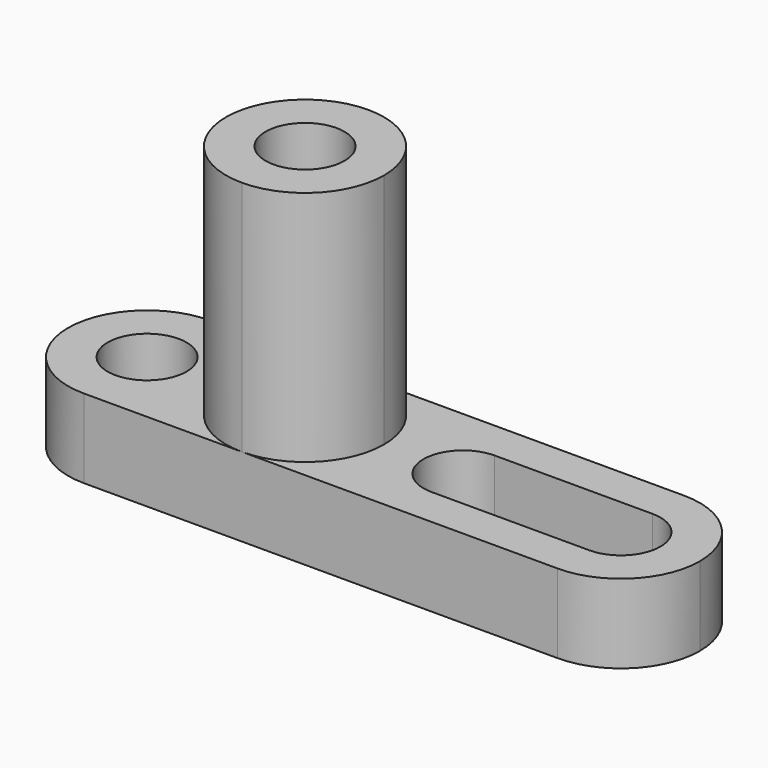
from build123d import *

# Parameters (mm, degrees)
F0_W     = 101.6
F0_H     = 50.8
F1_DEPTH = 25.4
F2_W     = 50.8
F2_H     = 38.1
F3_DEPTH = 25.4
F5_DEPTH = 38.1
F6_R     = 6.35
F7_DEPTH = 50.8
F8_R     = 6.35
F9_DEPTH = 25.4


with BuildPart() as f1:
    # F0 (on Front) → F1 (new body)
    with BuildSketch(Plane.XZ):
        with Locations((-24.0954693718, 25.4)):
            Rectangle(F0_W, F0_H)
    extrude(amount=F1_DEPTH)

    # F2 (on face) → F3 (cut)
    with BuildSketch(Plane.XZ.offset(25.4)):
        with Locations((1.3045306282, 31.75)):
            Rectangle(F2_W, F2_H)
    extrude(amount=-F3_DEPTH, mode=Mode.SUBTRACT)

    # F4 (on face) → F5 (cut)
    with BuildSketch(Plane.XY.offset(50.8)):
        Polygon((-49.4954693718, -25.4), (-49.4954693718, -12.7), (-49.4954693718, 0), (-74.8954693718, 0), (-74.8954693718, -25.4), align=None)
        with BuildLine():
            Line((-24.0954693718, -25.4), (-24.0954693718, -12.7))
            ThreePointArc((-24.0954693718, -12.7), (-27.8152132507, -21.6802561211), (-36.7954693718, -25.4))
            Line((-36.7954693718, -25.4), (-24.0954693718, -25.4))
        make_face()
        with BuildLine():
            ThreePointArc((-36.7954693718, 0), (-27.8152132507, -3.7197438789), (-24.0954693718, -12.7))
            Line((-24.0954693718, -12.7), (-24.0954693718, 0))
            Line((-24.0954693718, 0), (-36.7954693718, 0))
        make_face()
        with BuildLine():
            Line((-49.4954693718, -25.4), (-36.7954693718, -25.4))
            ThreePointArc((-36.7954693718, -25.4), (-45.7757254928, -21.6802561211), (-49.4954693718, -12.7))
            Line((-49.4954693718, -12.7), (-49.4954693718, -25.4))
        make_face()
        with BuildLine():
            ThreePointArc((-49.4954693718, -12.7), (-45.7757254928, -3.7197438789), (-36.7954693718, 0))
            Line((-36.7954693718, 0), (-49.4954693718, 0))
            Line((-49.4954693718, 0), (-49.4954693718, -12.7))
        make_face()
    extrude(amount=-F5_DEPTH, mode=Mode.SUBTRACT)

    # F6 (on face) → F7 (cut)
    with BuildSketch(Plane.XY.offset(50.8)):
        with Locations((-36.7954693718, -12.7)):
            Circle(F6_R)
    extrude(amount=-F7_DEPTH, mode=Mode.SUBTRACT)

    # F8 (on Top) → F9 (cut)
    with BuildSketch(Plane.XY):
        with Locations((-62.1954693718, -12.7)):
            Circle(F8_R)
        with BuildLine():
            ThreePointArc((-11.3954693718, -19.05), (-6.9053413112, -17.1901280605), (-5.0454693718, -12.7))
            ThreePointArc((-5.0454693718, -12.7), (-6.9053413112, -8.2098719395), (-11.3954693718, -6.35))
            ThreePointArc((-11.3954693718, -6.35), (-17.7454693718, -12.7), (-11.3954693718, -19.05))
        make_face()
        with BuildLine():
            ThreePointArc((-11.3954693718, -6.35), (-6.9053413112, -8.2098719395), (-5.0454693718, -12.7))
            ThreePointArc((-5.0454693718, -12.7), (-6.9053413112, -17.1901280605), (-11.3954693718, -19.05))
            Line((-11.3954693718, -19.05), (14.0045306282, -19.05))
            ThreePointArc((14.0045306282, -19.05), (7.6545306282, -12.7), (14.0045306282, -6.35))
            Line((14.0045306282, -6.35), (-11.3954693718, -6.35))
        make_face()
        with BuildLine():
            ThreePointArc((20.3545306282, -12.7), (18.4946586888, -8.2098719395), (14.0045306282, -6.35))
            ThreePointArc((14.0045306282, -6.35), (7.6545306282, -12.7), (14.0045306282, -19.05))
            ThreePointArc((14.0045306282, -19.05), (18.4946586888, -17.1901280605), (20.3545306282, -12.7))
        make_face()
        with BuildLine():
            Line((-74.8954693718, 0), (-74.8954693718, -12.7))
            ThreePointArc((-74.8954693718, -12.7), (-71.1757254928, -3.7197438789), (-62.1954693718, 0))
            Line((-62.1954693718, 0), (-74.8954693718, 0))
        make_face()
        with BuildLine():
            ThreePointArc((-62.1954693718, -25.4), (-71.1757254928, -21.6802561211), (-74.8954693718, -12.7))
            Line((-74.8954693718, -12.7), (-74.8954693718, -25.4))
            Line((-74.8954693718, -25.4), (-62.1954693718, -25.4))
        make_face()
        with BuildLine():
            Line((26.7045306282, -25.4), (26.7045306282, -12.7))
            ThreePointArc((26.7045306282, -12.7), (22.9847867493, -21.6802561211), (14.0045306282, -25.4))
            Line((14.0045306282, -25.4), (26.7045306282, -25.4))
        make_face()
        with BuildLine():
            ThreePointArc((14.0045306282, 0), (22.9847867493, -3.7197438789), (26.7045306282, -12.7))
            Line((26.7045306282, -12.7), (26.7045306282, 0))
            Line((26.7045306282, 0), (14.0045306282, 0))
        make_face()
    extrude(amount=F9_DEPTH, mode=Mode.SUBTRACT)


solid = f1.part
